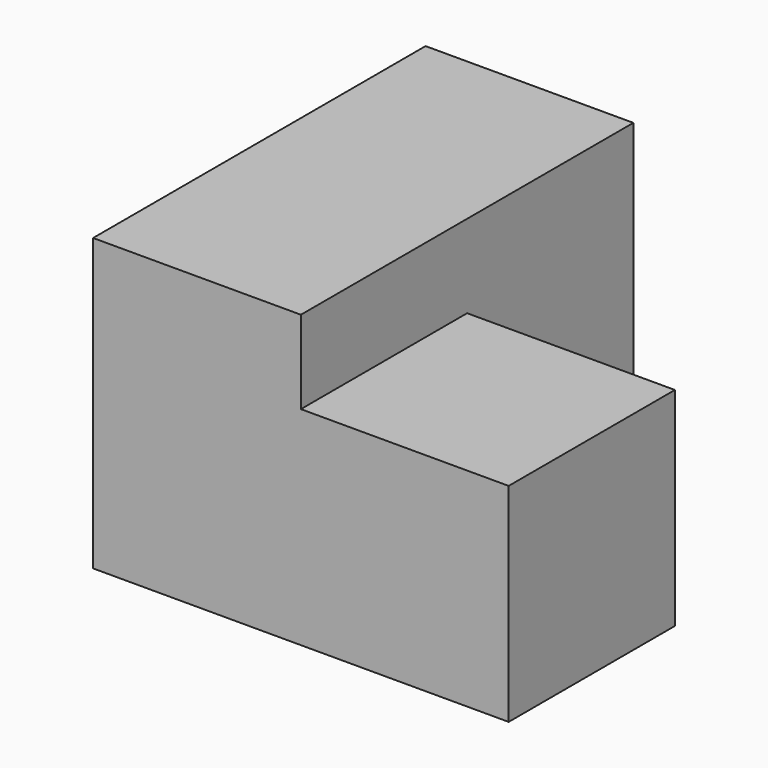
from build123d import *

# Parameters (mm, degrees)
BOX001_W     = 10
BOX001_H     = 10
BOX001_DEPTH = 10
BOX_W        = 10
BOX_H        = 20
BOX_DEPTH    = 14


with BuildPart() as cub001:
    # Box001 → Box001 (new body)
    with BuildSketch(Plane(origin=(10, 0, 0), x_dir=(1, 0, 0), z_dir=(0, 0, 1))):
        with Locations((5, 5)):
            Rectangle(BOX001_W, BOX001_H)
    extrude(amount=BOX001_DEPTH)


with BuildPart() as obj1:
    # Box → Box (new body)
    with BuildSketch(Plane.XY):
        with Locations((5, 10)):
            Rectangle(BOX_W, BOX_H)
    extrude(amount=BOX_DEPTH)

    # Fusion: union Cub001
    add(cub001.part)


solid = obj1.part
